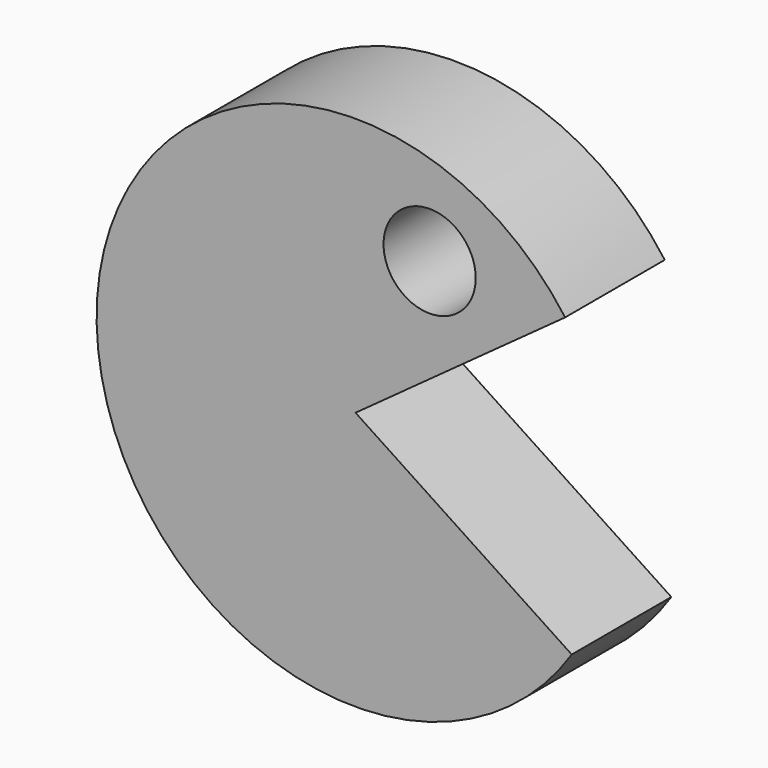
from build123d import *

# Parameters (mm, degrees)
F0_R     = 9.401433
F1_DEPTH = 25.4


with BuildPart() as f1:
    # F0 (on Front) → F1 (new body)
    with BuildSketch(Plane.XZ):
        with BuildLine():
            Line((0, 0), (42.751513, 31.018406))
            ThreePointArc((42.751513, 31.018406), (-52.805688, -1.180134), (44.094573, -29.077518))
            Line((44.094573, -29.077518), (0, 0))
        make_face()
        with Locations((15.113002, 32.131001)):
            Circle(F0_R, mode=Mode.SUBTRACT)
    extrude(amount=F1_DEPTH)


solid = f1.part
